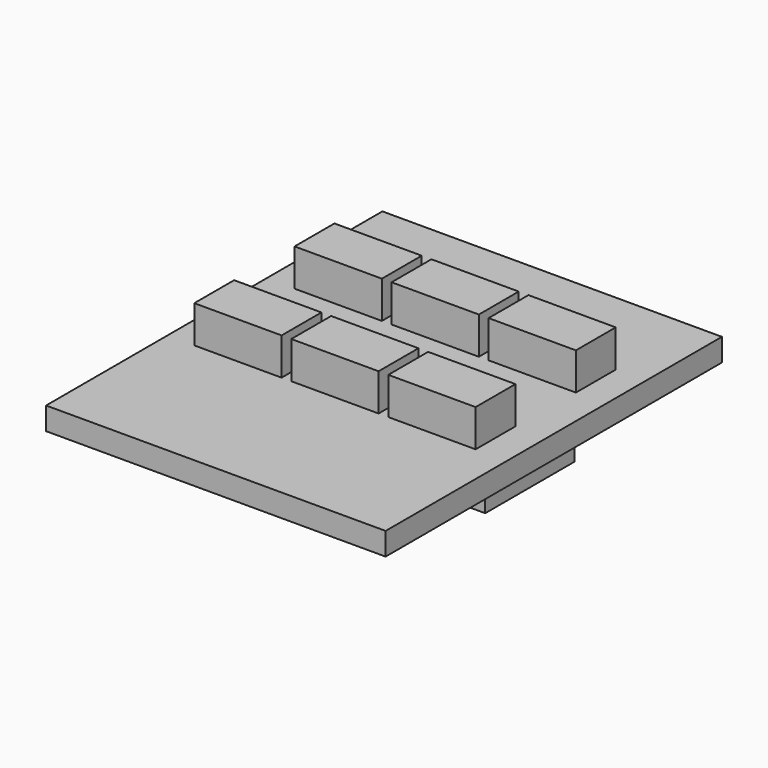
from build123d import *

# Parameters (mm, degrees)
F0_W     = 10.5
F0_H     = 13
F0_W_2   = 2.7
F0_H_2   = 1.54
F1_DEPTH = 0.7
F2_DEPTH = 1.85
F3_W     = 1.9751354622
F3_H     = 1.54
F3_W_2   = 2.0054427082
F4_DEPTH = 1
F3_W_3   = 1.6171073075
F3_H_2   = 0.5545145935
F3_H_3   = 2.2898169597
F3_H_4   = 0.6118393503
F5_DEPTH = 1.6


with BuildPart() as f1:
    # F0 (on Top) → F1 (new body)
    with BuildSketch(Plane.XY):
        Rectangle(F0_W, F0_H)
        with Locations((-3.0680515347, -1.0410206797)):
            Rectangle(F0_W_2, F0_H_2, mode=Mode.SUBTRACT)
        with Locations((-0.0680515347, -1.0410206797)):
            Rectangle(F0_W_2, F0_H_2, mode=Mode.SUBTRACT)
        with Locations((2.9319484653, -1.0410206797)):
            Rectangle(F0_W_2, F0_H_2, mode=Mode.SUBTRACT)
        with Locations((-3.0306075118, 2.78879628)):
            Rectangle(F0_W_2, F0_H_2, mode=Mode.SUBTRACT)
        with Locations((-0.0306075118, 2.78879628)):
            Rectangle(F0_W_2, F0_H_2, mode=Mode.SUBTRACT)
        with Locations((2.9693924882, 2.78879628)):
            Rectangle(F0_W_2, F0_H_2, mode=Mode.SUBTRACT)
        with Locations((-3.0680515347, -1.0410206797)):
            Rectangle(F0_W_2, F0_H_2)
        with Locations((-3.0306075118, 2.78879628)):
            Rectangle(F0_W_2, F0_H_2)
        with Locations((-0.0306075118, 2.78879628)):
            Rectangle(F0_W_2, F0_H_2)
        with Locations((-0.0680515347, -1.0410206797)):
            Rectangle(F0_W_2, F0_H_2)
        with Locations((2.9319484653, -1.0410206797)):
            Rectangle(F0_W_2, F0_H_2)
        with Locations((2.9693924882, 2.78879628)):
            Rectangle(F0_W_2, F0_H_2)
    extrude(amount=F1_DEPTH)

    # F0 (on Top) → F2 (join)
    with BuildSketch(Plane.XY):
        with Locations((-3.0680515347, -1.0410206797)):
            Rectangle(F0_W_2, F0_H_2)
        with Locations((-0.0680515347, -1.0410206797)):
            Rectangle(F0_W_2, F0_H_2)
        with Locations((2.9319484653, -1.0410206797)):
            Rectangle(F0_W_2, F0_H_2)
        with Locations((2.9693924882, 2.78879628)):
            Rectangle(F0_W_2, F0_H_2)
        with Locations((-0.0306075118, 2.78879628)):
            Rectangle(F0_W_2, F0_H_2)
        with Locations((-3.0306075118, 2.78879628)):
            Rectangle(F0_W_2, F0_H_2)
    extrude(amount=F2_DEPTH)

    # F3 (on face) → F4 (join)
    with BuildSketch(Plane.XY):
        Polygon((-3.7234942429, -1.8110206797), (-3.7234942429, -4.0597501211), (0.5570839276, -4.0597501211), (0.5570839276, -1.8110206797), (-1.4180515347, -1.8110206797), (-1.4180515347, -0.2710206797), (0.5570839276, -0.2710206797), (0.5570839276, 0), (-3.7234942429, 0), (-3.7234942429, -0.2710206797), (-1.7180515347, -0.2710206797), (-1.7180515347, -1.8110206797), align=None)
        with Locations((-0.4304838036, -1.0410206797)):
            Rectangle(F3_W, F3_H)
        with Locations((-2.7207728888, -1.0410206797)):
            Rectangle(F3_W_2, F3_H)
    extrude(amount=-F4_DEPTH)

    # F3 (on face) → F5 (join)
    with BuildSketch(Plane.XY):
        with Locations((2.9827450635, -0.5482779764)):
            Rectangle(F3_W_3, F3_H_2)
        with Locations((2.9827450635, 0.8738878002)):
            Rectangle(F3_W_3, F3_H_3)
        with Locations((2.9827450635, 2.3247159552)):
            Rectangle(F3_W_3, F3_H_4)
    extrude(amount=-F5_DEPTH)


solid = f1.part
